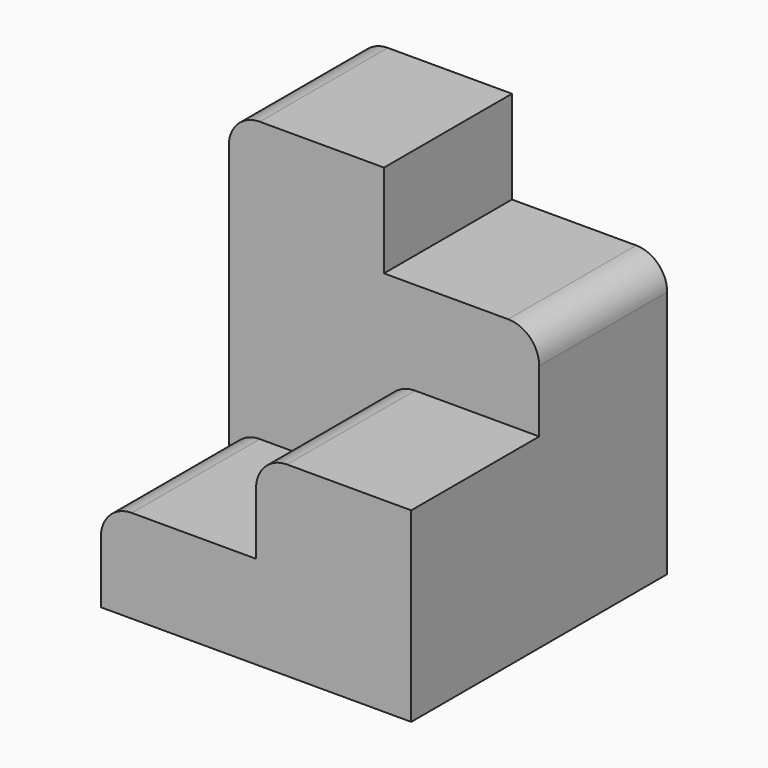
from build123d import *

# Parameters (mm, degrees)
F0_W     = 10
F0_H     = 10.306037739
F1_DEPTH = 3
F3_DEPTH = 3
F4_W     = 10
F4_H     = 5.1530188695
F5_DEPTH = 3
F6_W     = 5
F6_H     = 5.1530188695
F7_DEPTH = 3
F8_R     = 1
F8_W     = 0.8780423959
F8_H     = 0.9329200257
F8_W_2   = 0.8780424541
F8_H_2   = 0.9603588842
F9_DEPTH = 3
F10_R    = 1


with BuildPart() as f1:
    # F0 (on Top) → F1 (new body)
    with BuildSketch(Plane.XY):
        Rectangle(F0_W, F0_H)
    extrude(amount=F1_DEPTH)

    # F2 (on face) → F3 (join)
    with BuildSketch(Plane.XY.offset(3)):
        Polygon((-5, 5.1530188695), (-5, 0), (0, 0), (0, -5.1530188695), (5, -5.1530188695), (5, 5.1530188695), (-2.5035347862, 5.1530188695), align=None)
    extrude(amount=F3_DEPTH)

    # F4 (on face) → F5 (join)
    with BuildSketch(Plane.XY.offset(6)):
        with Locations((0, 2.5765094348)):
            Rectangle(F4_W, F4_H)
    extrude(amount=F5_DEPTH)

    # F6 (on face) → F7 (join)
    with BuildSketch(Plane.XY.offset(9)):
        with Locations((-2.5, 2.5765094348)):
            Rectangle(F6_W, F6_H)
    extrude(amount=F7_DEPTH)

    # F8 (on face) → F9 (cut)
    with BuildSketch(Plane(origin=(0, 5.1530188695, 0), x_dir=(-1, 0, 0), z_dir=(0, 1, 0))):
        with Locations((-2.5, 7.5359190814)):
            Circle(F8_R)
        with Locations((-2.5, 4.5)):
            Circle(F8_R)
        with Locations((-2.5, 1.4719393803)):
            Circle(F8_R)
        with Locations((-0.7341963501, 2.9536358779)):
            Rectangle(F8_W, F8_H)
        with Locations((-0.734196321, 6.0405035038)):
            Rectangle(F8_W_2, F8_H_2)
        Polygon((1.1865213746, 11.4322323352), (0, 0.7859683246), (2.8032438053, 0.729703495), (4.2047919706, 2.322542714), (1.7662906772, 2.322542714), (4.2047919706, 5.0938641652), (1.7662906772, 5.0938641652), (4.2047919706, 7.3987250216), (1.7662906772, 7.3987250216), (4.2047919706, 9.5562967831), (1.7662906772, 9.5562967831), (4.2047919706, 11.4322323352), align=None)
    extrude(amount=-F9_DEPTH, mode=Mode.SUBTRACT)

    # F10
    f10_edges = [f1.edges().sort_by_distance(p)[0] for p in [
        (-5, 2.576509, 12),
        (5, 2.576509, 9),
        (0, -2.576509, 6),
        (-5, -2.576509, 3),
    ]]
    fillet(f10_edges, radius=F10_R)


solid = f1.part
